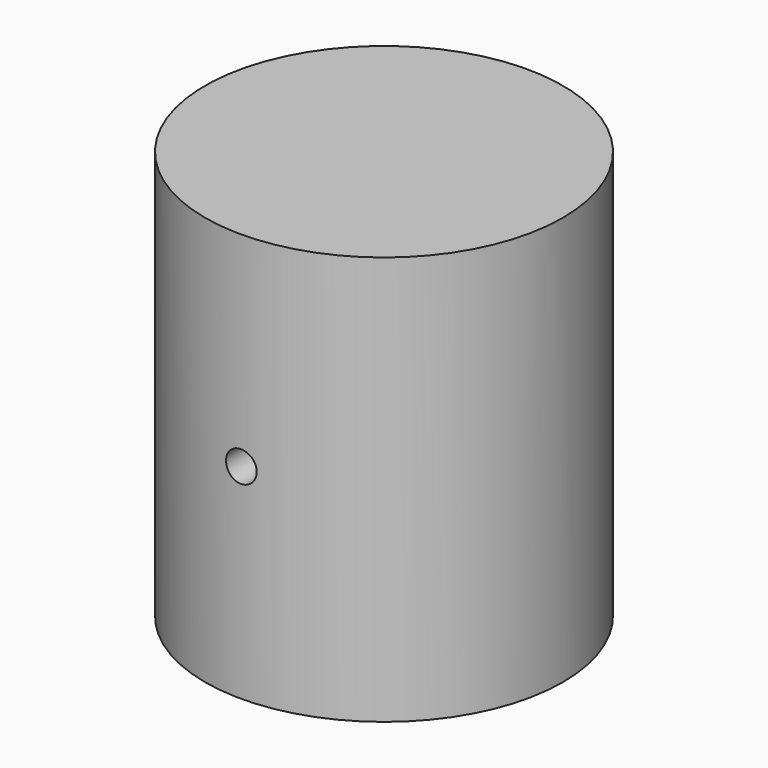
from build123d import *

# Parameters (mm, degrees)
F0_R     = 70
F1_DEPTH = 160
F3_R     = 6
F4_DEPTH = 50


with BuildPart() as f1:
    # F0 (on Top) → F1 (new body)
    with BuildSketch(Plane.XY):
        Circle(F0_R)
    extrude(amount=F1_DEPTH)

    # F3 (on offset) → F4 (cut)
    with BuildSketch(Plane.XZ.offset(70)):
        with Locations((0, 80)):
            Circle(F3_R)
    extrude(amount=-F4_DEPTH, mode=Mode.SUBTRACT)


solid = f1.part
